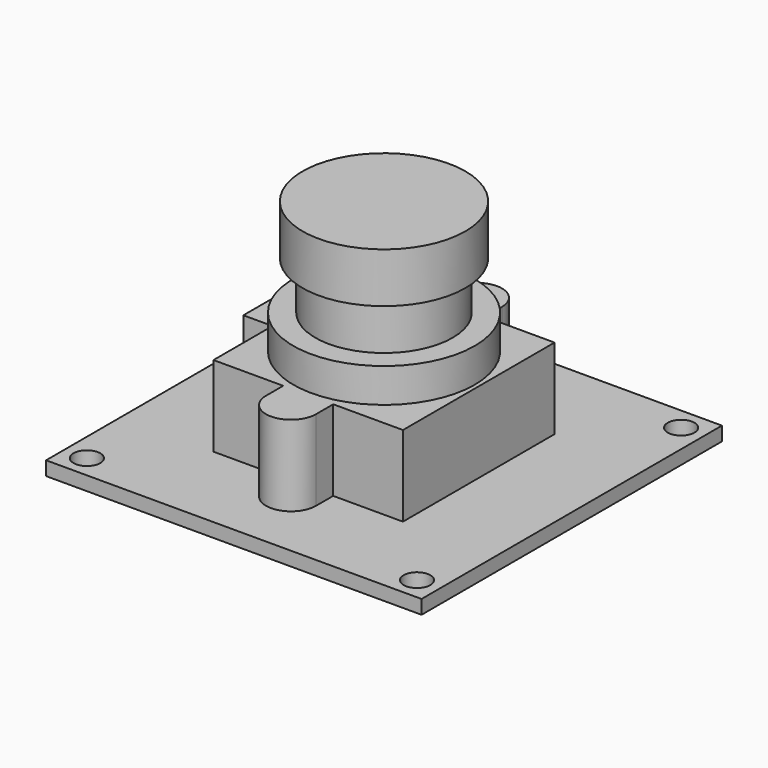
from build123d import *

# Parameters (mm, degrees)
F0_W     = 32.3
F0_H     = 32.3
F0_R     = 1.15
F1_DEPTH = 1.2
F0_R_2   = 7.8
F0_W_2   = 2.5
F0_H_2   = 3.62
F2_DEPTH = 8.14
F3_DEPTH = 11.08
F4_R     = 5.9
F5_DEPTH = 19.5
F6_START = 15.2
F4_R_2   = 7
F6_DEPTH = 4.3


with BuildPart() as f1:
    # F0 (on Top) → F1 (new body)
    with BuildSketch(Plane.XY):
        Rectangle(F0_W, F0_H)
        with Locations((-14.2, -14.2)):
            Circle(F0_R, mode=Mode.SUBTRACT)
        with Locations((14.2, -14.2)):
            Circle(F0_R, mode=Mode.SUBTRACT)
        with BuildLine():
            Line((-8.15, 1.81), (-8.15, 8.15))
            Line((-8.15, 8.15), (-2.15, 8.15))
            Line((-2.15, 8.15), (-2.15, 10))
            ThreePointArc((-2.15, 10), (0, 12.15), (2.15, 10))
            Line((2.15, 10), (2.15, 8.15))
            Line((2.15, 8.15), (8.15, 8.15))
            Line((8.15, 8.15), (8.15, -8.15))
            Line((8.15, -8.15), (2.15, -8.15))
            Line((2.15, -8.15), (2.15, -10))
            ThreePointArc((2.15, -10), (0, -12.15), (-2.15, -10))
            Line((-2.15, -10), (-2.15, -8.15))
            Line((-2.15, -8.15), (-8.15, -8.15))
            Line((-8.15, -8.15), (-8.15, -1.81))
            Line((-8.15, -1.81), (-10.65, -1.81))
            Line((-10.65, -1.81), (-10.65, 1.81))
            Line((-10.65, 1.81), (-8.15, 1.81))
        make_face(mode=Mode.SUBTRACT)
        with Locations((-14.2, 14.2)):
            Circle(F0_R, mode=Mode.SUBTRACT)
        with Locations((14.2, 14.2)):
            Circle(F0_R, mode=Mode.SUBTRACT)
    extrude(amount=F1_DEPTH)

    # F0 (on Top) → F2 (join)
    with BuildSketch(Plane.XY):
        with BuildLine():
            Line((1.095445115, 8.15), (-1.095445115, 8.15))
            ThreePointArc((-1.095445115, 8.15), (0, 7.85), (1.095445115, 8.15))
        make_face()
        with BuildLine():
            ThreePointArc((1.095445115, -8.15), (0, -7.85), (-1.095445115, -8.15))
            Line((-1.095445115, -8.15), (1.095445115, -8.15))
        make_face()
        with BuildLine():
            Line((-1.095445115, -8.15), (-2.15, -8.15))
            Line((-2.15, -8.15), (-2.15, -10))
            ThreePointArc((-2.15, -10), (-1.86784729, -8.9352716302), (-1.095445115, -8.15))
        make_face()
        with BuildLine():
            Line((2.15, -8.15), (1.095445115, -8.15))
            ThreePointArc((1.095445115, -8.15), (1.86784729, -8.9352716302), (2.15, -10))
            Line((2.15, -10), (2.15, -8.15))
        make_face()
        with BuildLine():
            Line((1.095445115, -8.15), (-1.095445115, -8.15))
            ThreePointArc((-1.095445115, -8.15), (-1.86784729, -8.9352716302), (-2.15, -10))
            ThreePointArc((-2.15, -10), (0, -12.15), (2.15, -10))
            ThreePointArc((2.15, -10), (1.86784729, -8.9352716302), (1.095445115, -8.15))
        make_face()
        with BuildLine():
            ThreePointArc((2.15, 10), (1.86784729, 8.9352716302), (1.095445115, 8.15))
            Line((1.095445115, 8.15), (2.15, 8.15))
            Line((2.15, 8.15), (2.15, 10))
        make_face()
        with BuildLine():
            Line((-2.15, 10), (-2.15, 8.15))
            Line((-2.15, 8.15), (-1.095445115, 8.15))
            ThreePointArc((-1.095445115, 8.15), (-1.86784729, 8.9352716302), (-2.15, 10))
        make_face()
        with BuildLine():
            ThreePointArc((-2.15, 10), (-1.86784729, 8.9352716302), (-1.095445115, 8.15))
            Line((-1.095445115, 8.15), (1.095445115, 8.15))
            ThreePointArc((1.095445115, 8.15), (1.86784729, 8.9352716302), (2.15, 10))
            ThreePointArc((2.15, 10), (0, 12.15), (-2.15, 10))
        make_face()
        with BuildLine():
            Line((-2.15, 8.15), (-8.15, 8.15))
            Line((-8.15, 8.15), (-8.15, 1.81))
            Line((-8.15, 1.81), (-8.15, -1.81))
            Line((-8.15, -1.81), (-8.15, -8.15))
            Line((-8.15, -8.15), (-2.15, -8.15))
            Line((-2.15, -8.15), (-1.095445115, -8.15))
            ThreePointArc((-1.095445115, -8.15), (0, -7.85), (1.095445115, -8.15))
            Line((1.095445115, -8.15), (2.15, -8.15))
            Line((2.15, -8.15), (8.15, -8.15))
            Line((8.15, -8.15), (8.15, 8.15))
            Line((8.15, 8.15), (2.15, 8.15))
            Line((2.15, 8.15), (1.095445115, 8.15))
            ThreePointArc((1.095445115, 8.15), (0, 7.85), (-1.095445115, 8.15))
            Line((-1.095445115, 8.15), (-2.15, 8.15))
        make_face()
        Circle(F0_R_2, mode=Mode.SUBTRACT)
        with Locations((-9.4, 0)):
            Rectangle(F0_W_2, F0_H_2)
    extrude(amount=F2_DEPTH)

    # F0 (on Top) → F3 (join)
    with BuildSketch(Plane.XY):
        Circle(F0_R_2)
    extrude(amount=F3_DEPTH)

    # F4 (on Top) → F5 (join)
    with BuildSketch(Plane.XY):
        Circle(F4_R)
    extrude(amount=F5_DEPTH)

    # F4 (on Top) → F6 (join)
    with BuildSketch(Plane.XY.offset(F6_START)):
        Circle(F4_R_2)
        Circle(F4_R, mode=Mode.SUBTRACT)
    extrude(amount=F6_DEPTH)


solid = f1.part
